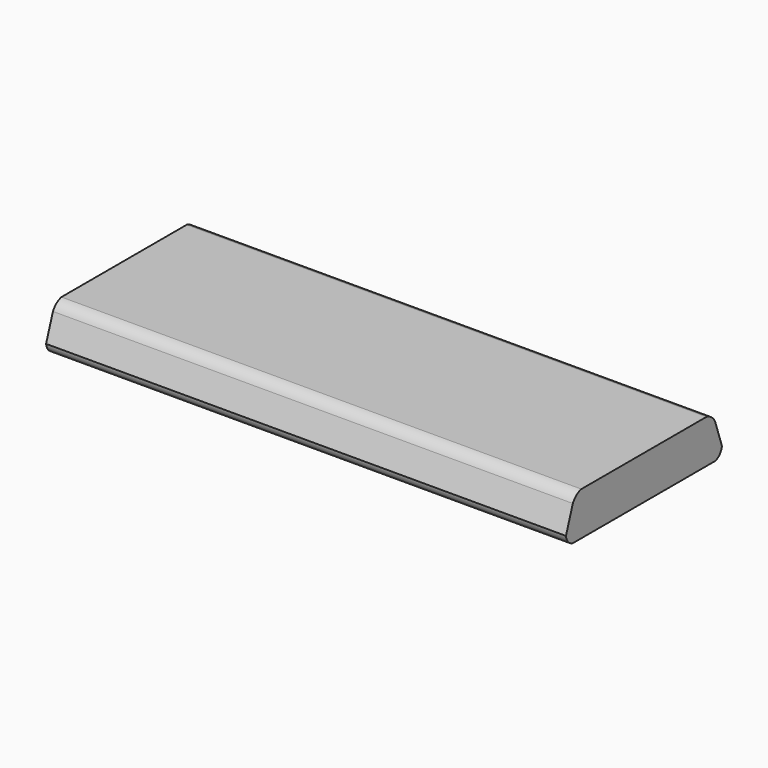
from build123d import *

# Parameters (mm, degrees)
F0_W     = 1219.2
F0_H     = 457.2
F1_DEPTH = 101.6
F3_DEPTH = 1219.2


with BuildPart() as f1:
    # F0 (on Top) → F1 (new body)
    with BuildSketch(Plane.XY):
        with Locations((609.6, 228.6)):
            Rectangle(F0_W, F0_H)
    extrude(amount=F1_DEPTH)

    # F2 (on face) → F3 (cut, through all)
    with BuildSketch(Plane.YZ.offset(1219.2)):
        with BuildLine():
            Line((0, 101.6), (0, 23.267455))
            Line((0, 23.267455), (20.157145, 82.072448))
            ThreePointArc((20.157145, 82.072448), (30.369806, 94.595842), (44.932622, 101.6))
            Line((44.932622, 101.6), (26.850789, 101.6))
            Line((26.850789, 101.6), (0, 101.6))
        make_face()
        with BuildLine():
            ThreePointArc((18.725431, 0), (5.976573, 8.908592), (0, 23.267455))
            Line((0, 23.267455), (0, 0))
            Line((0, 0), (18.725431, 0))
        make_face()
        with BuildLine():
            Line((430.349211, 101.6), (412.267378, 101.6))
            ThreePointArc((412.267378, 101.6), (426.830194, 94.595842), (437.042855, 82.072448))
            Line((437.042855, 82.072448), (430.349211, 101.6))
        make_face()
        with BuildLine():
            Line((457.2, 0), (457.2, 23.267455))
            ThreePointArc((457.2, 23.267455), (451.223427, 8.908592), (438.474569, 0))
            Line((438.474569, 0), (457.2, 0))
        make_face()
        Polygon((430.349211, 101.6), (437.042855, 82.072448), (457.2, 23.267455), (457.2, 101.6), align=None)
    extrude(amount=-F3_DEPTH, mode=Mode.SUBTRACT)


solid = f1.part
